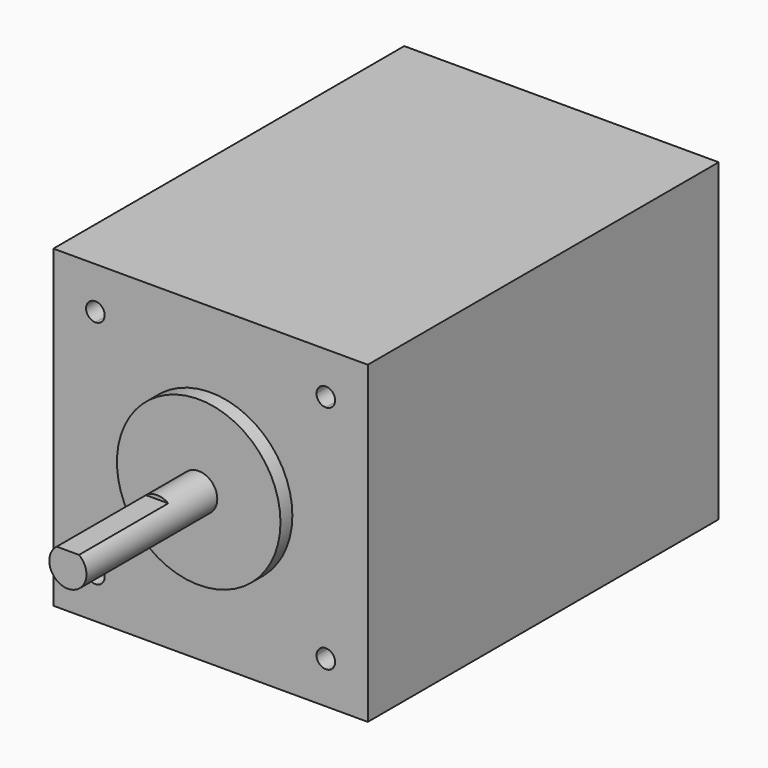
from build123d import *

# Parameters (mm, degrees)
F0_W     = 42.3
F0_H     = 42.3
F1_DEPTH = 59
F2_R     = 11
F3_DEPTH = 2
F4_R     = 2.5
F5_DEPTH = 22
F7_DEPTH = 15
F9_DEPTH = 4.5


with BuildPart() as f1:
    # F0 (on Front) → F1 (new body)
    with BuildSketch(Plane.XZ):
        Rectangle(F0_W, F0_H)
    extrude(amount=F1_DEPTH)

    # F2 (on face) → F3 (join)
    with BuildSketch(Plane.XZ.offset(59)):
        Circle(F2_R)
    extrude(amount=F3_DEPTH)

    # F4 (on face) → F5 (join)
    with BuildSketch(Plane.XZ.offset(61)):
        Circle(F4_R)
    extrude(amount=F5_DEPTH)

    # F6 (on face) → F7 (cut)
    with BuildSketch(Plane.XZ.offset(83)):
        with BuildLine():
            ThreePointArc((0, 2.5), (-0.790569, 2.371708), (-1.5, 2))
            Line((-1.5, 2), (0, 2))
            Line((0, 2), (0, 2.5))
        make_face()
        with BuildLine():
            Line((0, 2.5), (0, 2))
            Line((0, 2), (1.5, 2))
            ThreePointArc((1.5, 2), (0.790569, 2.371708), (0, 2.5))
        make_face()
    extrude(amount=-F7_DEPTH, mode=Mode.SUBTRACT)

    # F8 (on face) → F9 (cut)
    with BuildSketch(Plane.XZ.offset(59)):
        with BuildLine():
            ThreePointArc((16.75, 15.5), (15.5, 16.75), (14.25, 15.5))
            Line((14.25, 15.5), (15.5, 15.5))
            Line((15.5, 15.5), (15.5, 14.25))
            ThreePointArc((15.5, 14.25), (16.383883, 14.616117), (16.75, 15.5))
        make_face()
        with BuildLine():
            Line((15.5, 15.5), (14.25, 15.5))
            ThreePointArc((14.25, 15.5), (14.616117, 14.616117), (15.5, 14.25))
            Line((15.5, 14.25), (15.5, 15.5))
        make_face()
        with BuildLine():
            Line((-15.5, 14.25), (-15.5, 15.5))
            Line((-15.5, 15.5), (-14.25, 15.5))
            ThreePointArc((-14.25, 15.5), (-16.383883, 16.383883), (-15.5, 14.25))
        make_face()
        with BuildLine():
            Line((-14.25, 15.5), (-15.5, 15.5))
            Line((-15.5, 15.5), (-15.5, 14.25))
            ThreePointArc((-15.5, 14.25), (-14.616117, 14.616117), (-14.25, 15.5))
        make_face()
        with BuildLine():
            Line((-15.5, -15.5), (-15.5, -14.25))
            ThreePointArc((-15.5, -14.25), (-16.383883, -16.383883), (-14.25, -15.5))
            Line((-14.25, -15.5), (-15.5, -15.5))
        make_face()
        with BuildLine():
            ThreePointArc((-14.25, -15.5), (-14.616117, -14.616117), (-15.5, -14.25))
            Line((-15.5, -14.25), (-15.5, -15.5))
            Line((-15.5, -15.5), (-14.25, -15.5))
        make_face()
        with BuildLine():
            Line((15.5, -15.5), (15.5, -14.25))
            ThreePointArc((15.5, -14.25), (14.616117, -14.616117), (14.25, -15.5))
            Line((14.25, -15.5), (15.5, -15.5))
        make_face()
        with BuildLine():
            ThreePointArc((16.75, -15.5), (16.383883, -14.616117), (15.5, -14.25))
            Line((15.5, -14.25), (15.5, -15.5))
            Line((15.5, -15.5), (14.25, -15.5))
            ThreePointArc((14.25, -15.5), (15.5, -16.75), (16.75, -15.5))
        make_face()
    extrude(amount=-F9_DEPTH, mode=Mode.SUBTRACT)


solid = f1.part
